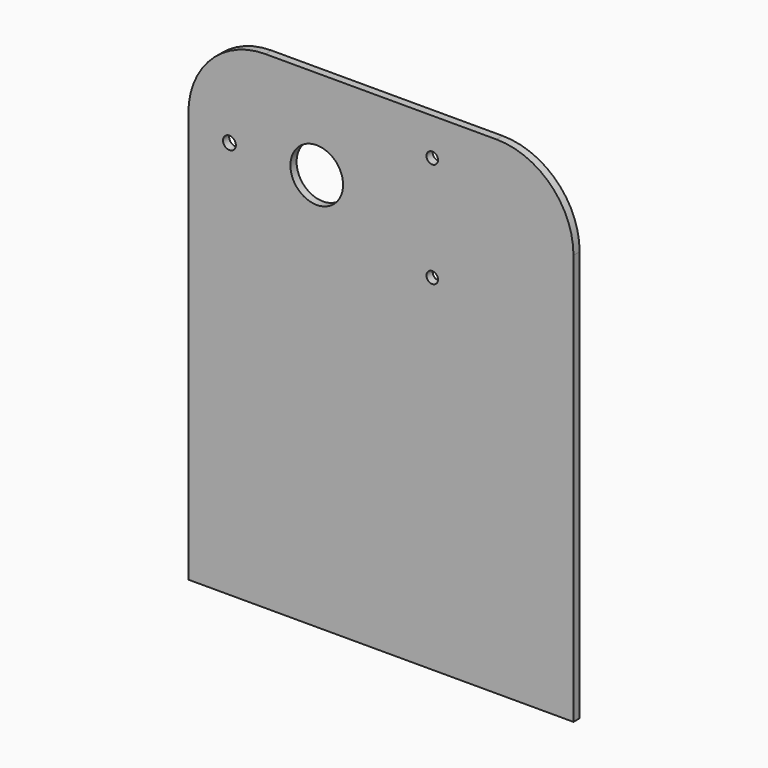
from build123d import *

# Parameters (mm, degrees)
F0_W     = 150
F0_H     = 190
F0_R     = 2.5
F0_R_2   = 10.25
F0_R_3   = 2.25
F1_DEPTH = 3
F2_R     = 30


with BuildPart() as f1:
    # F0 (on Front) → F1 (new body)
    with BuildSketch(Plane.XZ):
        Rectangle(F0_W, F0_H)
        with Locations((-59, 60)):
            Circle(F0_R, mode=Mode.SUBTRACT)
        with Locations((-25, 60)):
            Circle(F0_R_2, mode=Mode.SUBTRACT)
        with Locations((20, 39.5)):
            Circle(F0_R_3, mode=Mode.SUBTRACT)
        with Locations((20, 80.5)):
            Circle(F0_R_3, mode=Mode.SUBTRACT)
    extrude(amount=F1_DEPTH)

    # F2
    f2_edges = [f1.edges().sort_by_distance(p)[0] for p in [
        (75, -1.5, 95),
        (-75, -1.5, 95),
    ]]
    fillet(f2_edges, radius=F2_R)


solid = f1.part
